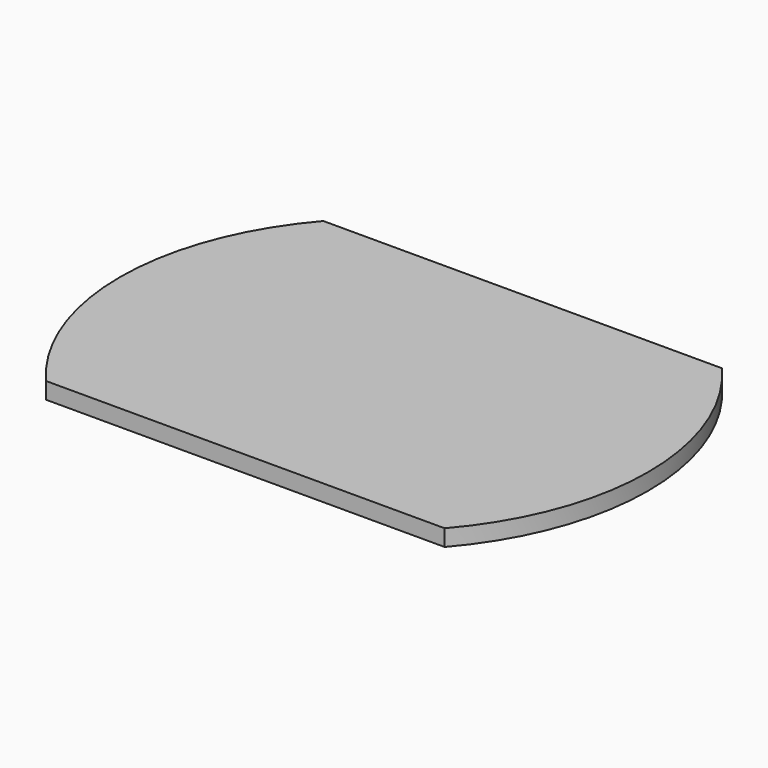
from build123d import *

# Parameters (mm, degrees)
F0_R     = 304.8
F1_DEPTH = 19.05
F4_W     = 651.788891
F4_H     = 160.561264
F5_DEPTH = 25.4


with BuildPart() as f1:
    # F0 (on Top) → F1 (new body)
    with BuildSketch(Plane.XY):
        Circle(F0_R)
    extrude(amount=F1_DEPTH)

    # F4 (on face) → F5 (cut)
    with BuildSketch(Plane.XY.offset(19.05)):
        with Locations((-6.526291, -280.289799)):
            Rectangle(F4_W, F4_H)
        with Locations((-6.526291, 280.289799)):
            Rectangle(F4_W, F4_H)
    extrude(amount=-F5_DEPTH, mode=Mode.SUBTRACT)


with BuildPart() as f2_1:
    # F2: copy of F1
    add(f1.part.moved(Location((0, 0, -515.62))))


solid = f1.part
